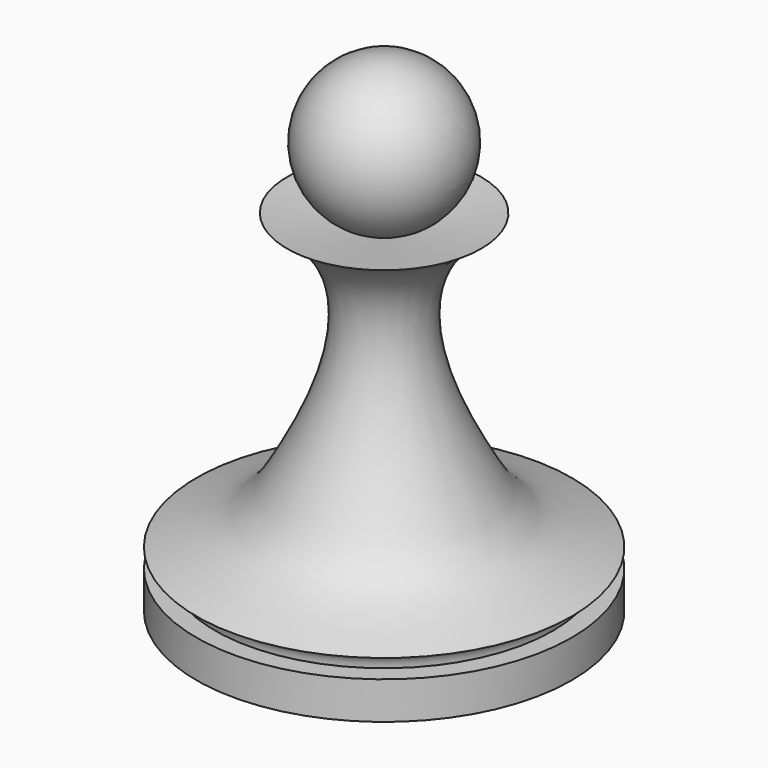
from build123d import *


with BuildPart() as f1:
    # F0 (on Front) → F1 (revolve)
    with BuildSketch(Plane.XZ):
        with BuildLine():
            Line((1.0372649909, 18.1368301437), (0, 18))
            ThreePointArc((0, 18), (0.5231254987, 18.0343550698), (1.0372649909, 18.1368301437))
        make_face()
        with BuildLine():
            Line((0, 5.7476488873), (0, 0))
            Line((0, 0), (10, 0))
            Line((10, 0), (10, 2))
            Line((10, 2), (9, 2))
            ThreePointArc((9, 2), (9.2928932188, 2.7071067812), (10, 3))
            add(Edge.make_bspline(
                [(10, 3), (6.4402706101, 4.1526411873), (5.3303703916, 5.2238263359), (0, 15.8852770326), (5.1751695573, 18.6826791614)],
                knots=[0, 0, 0, 0, 0.4247866557, 1, 1, 1, 1], degree=3))
            Line((5.1751695573, 18.6826791614), (1.0372649909, 18.1368301437))
            ThreePointArc((1.0372649909, 18.1368301437), (0.5231254987, 18.0343550698), (0, 18))
            Line((0, 18), (0, 16.7880281806))
            Line((0, 16.7880281806), (0.7259532576, 15.2320023626))
            Line((0.7259532576, 15.2320023626), (3.2452349551, 5.7476488873))
            Line((3.2452349551, 5.7476488873), (0, 5.7476488873))
        make_face()
        with BuildLine():
            Line((0, 19), (0, 18))
            Line((0, 18), (1.0372649909, 18.1368301437))
            ThreePointArc((1.0372649909, 18.1368301437), (3.9656449302, 22.5231254987), (0, 26))
            Line((0, 26), (0, 25))
            ThreePointArc((0, 25), (3, 22), (0, 19))
        make_face()
    revolve(axis=Axis((0, 0, 11), (0, 0, 1)))


solid = f1.part
